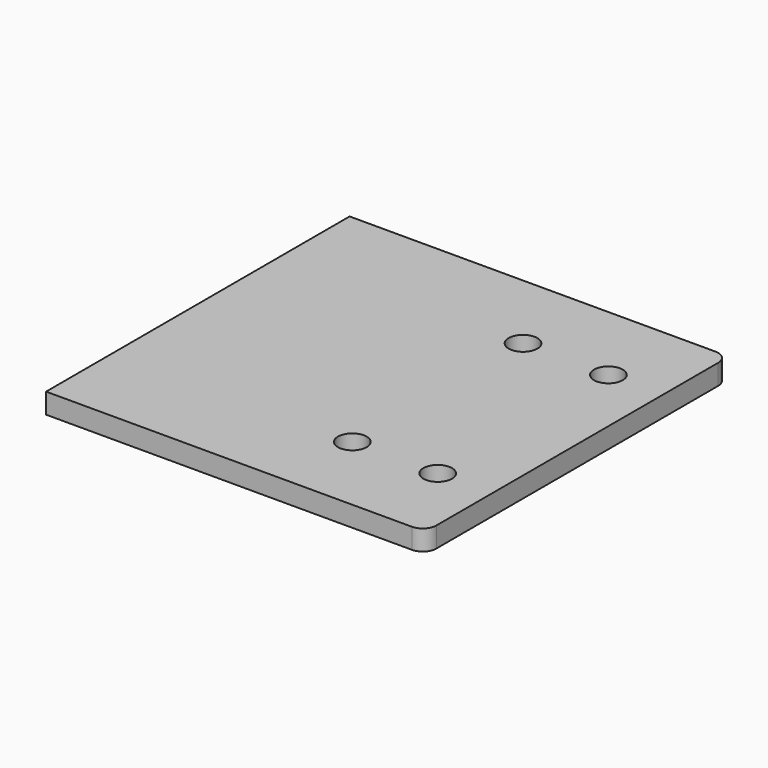
from build123d import *

# Parameters (mm, degrees)
F0_R     = 6.731
F1_DEPTH = 9.525


with BuildPart() as f1:
    # F0 (on Top) → F1 (new body)
    with BuildSketch(Plane.XY):
        with BuildLine():
            ThreePointArc((82.55, -88.9), (87.040128, -87.040128), (88.9, -82.55))
            Line((88.9, -82.55), (88.9, 82.55))
            ThreePointArc((88.9, 82.55), (87.040128, 87.040128), (82.55, 88.9))
            Line((82.55, 88.9), (-88.9, 88.9))
            Line((-88.9, 88.9), (-88.9, -88.9))
            Line((-88.9, -88.9), (82.55, -88.9))
        make_face()
        with Locations((23.506227, -49.9999)):
            Circle(F0_R, mode=Mode.SUBTRACT)
        with Locations((63.506147, -49.9999)):
            Circle(F0_R, mode=Mode.SUBTRACT)
        with Locations((23.506227, 49.9999)):
            Circle(F0_R, mode=Mode.SUBTRACT)
        with Locations((63.506147, 49.9999)):
            Circle(F0_R, mode=Mode.SUBTRACT)
    extrude(amount=F1_DEPTH)


solid = f1.part
